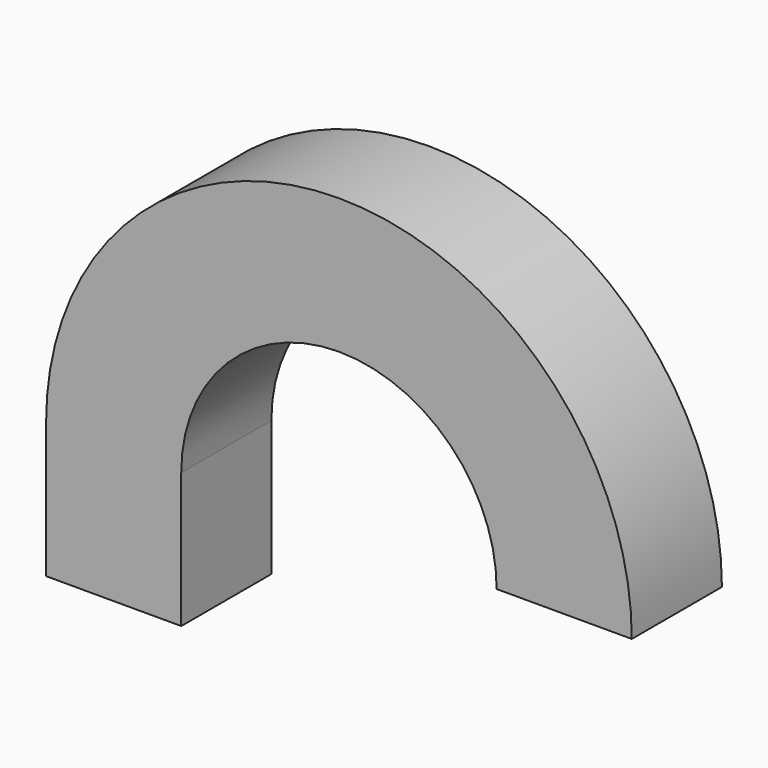
from build123d import *


with BuildPart() as f2:
    # F2: sweep along a path in F1
    with BuildLine(Plane.XZ) as f2_path:
        Line((0, 0), (0, 30))
        ThreePointArc((0, 30), (50, 80), (100, 30))
    # F0 (on Top) → F2 (sweep)
    with BuildSketch(Plane.XY):
        Polygon((-15, -12.5), (15, -12.5), (15, 0), (15, 12.5), (-15, 12.5), align=None)
    sweep(path=f2_path.line)


solid = f2.part
